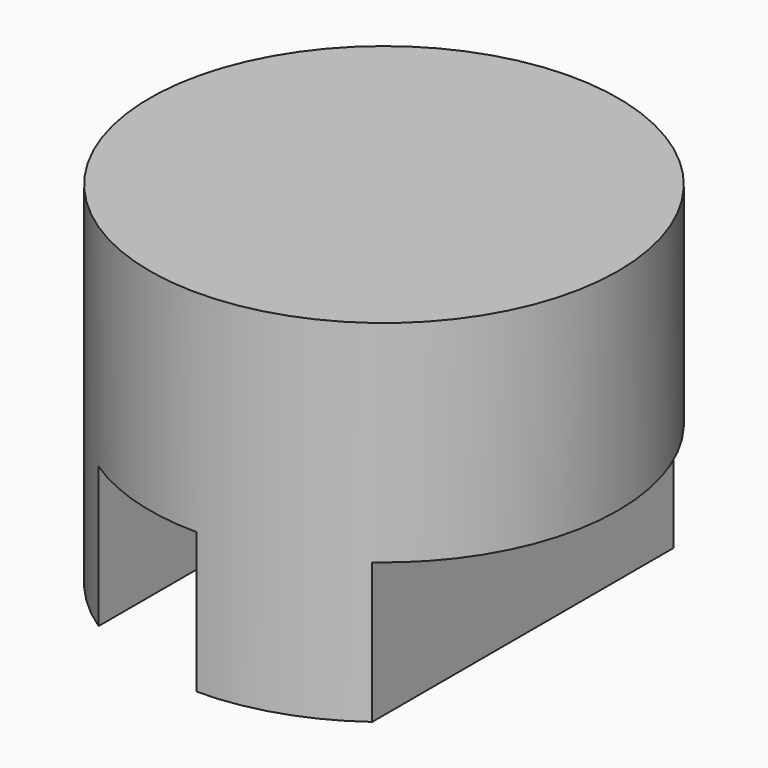
from build123d import *

# Parameters (mm, degrees)
F0_R          = 20
F1_DEPTH      = 30
F2_W          = 11.0205635428
F2_H          = 81.4056694508
F3_DEPTH      = 12
F3_DEPTH_BACK = 12
F4_W          = 11.5908719599
F4_H          = 48.789491877
F5_DEPTH      = 12


with BuildPart() as f1:
    # F0 (on Top) → F1 (new body)
    with BuildSketch(Plane.XY):
        Circle(F0_R)
    extrude(amount=F1_DEPTH)

    # F2 (on Top) → F3 (cut, two sides)
    with BuildSketch(Plane.XY) as f3_sk:
        with Locations((-5.5102817714, 0.5468949676)):
            Rectangle(F2_W, F2_H)
    extrude(amount=-F3_DEPTH, mode=Mode.SUBTRACT)
    extrude(f3_sk.sketch, amount=F3_DEPTH_BACK, mode=Mode.SUBTRACT)

    # F4 (on Top) → F5 (cut)
    with BuildSketch(Plane.XY):
        with Locations((17.6695231348, -3.9880210534)):
            Rectangle(F4_W, F4_H)
    extrude(amount=F5_DEPTH, mode=Mode.SUBTRACT)


solid = f1.part
